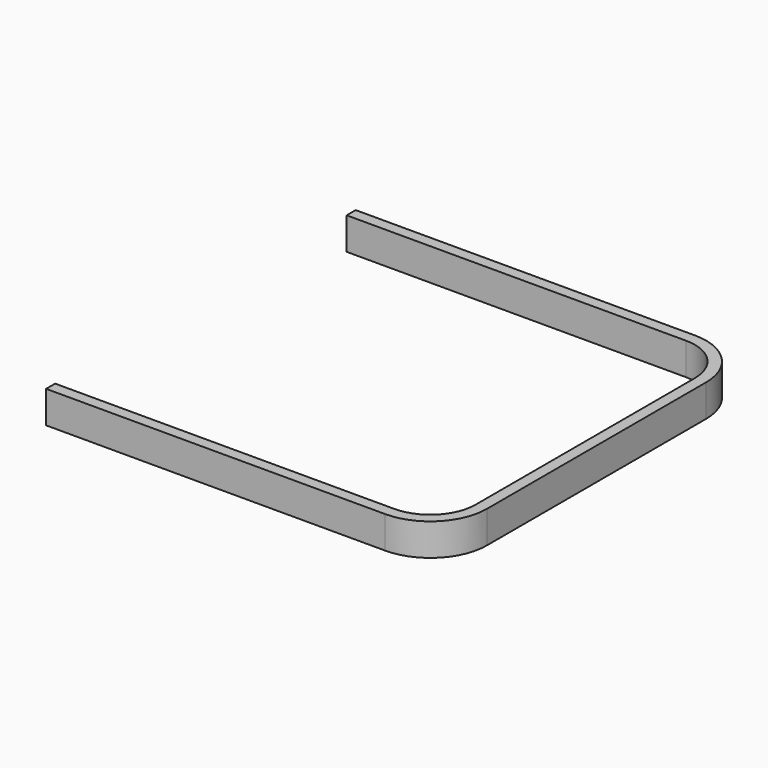
from build123d import *

# Parameters (mm, degrees)
F1_W = 1.589909
F1_H = 4.523729


with BuildPart() as f2:
    # F2: sweep along a path in F0
    with BuildLine(Plane.XY) as f2_path:
        Line((0, 0), (47.690287, 0))
        ThreePointArc((47.690287, 0), (52.180415, 1.859872), (54.040287, 6.35))
        Line((54.040287, 6.35), (54.040287, 44.896792))
        ThreePointArc((54.040287, 44.896792), (52.180415, 49.38692), (47.690287, 51.246792))
        Line((47.690287, 51.246792), (0, 51.246792))
    # F1 (on Right) → F2 (sweep)
    with BuildSketch(Plane.YZ):
        with Locations((-0.794955, 2.261864)):
            Rectangle(F1_W, F1_H)
    sweep(path=f2_path.line)


solid = f2.part
